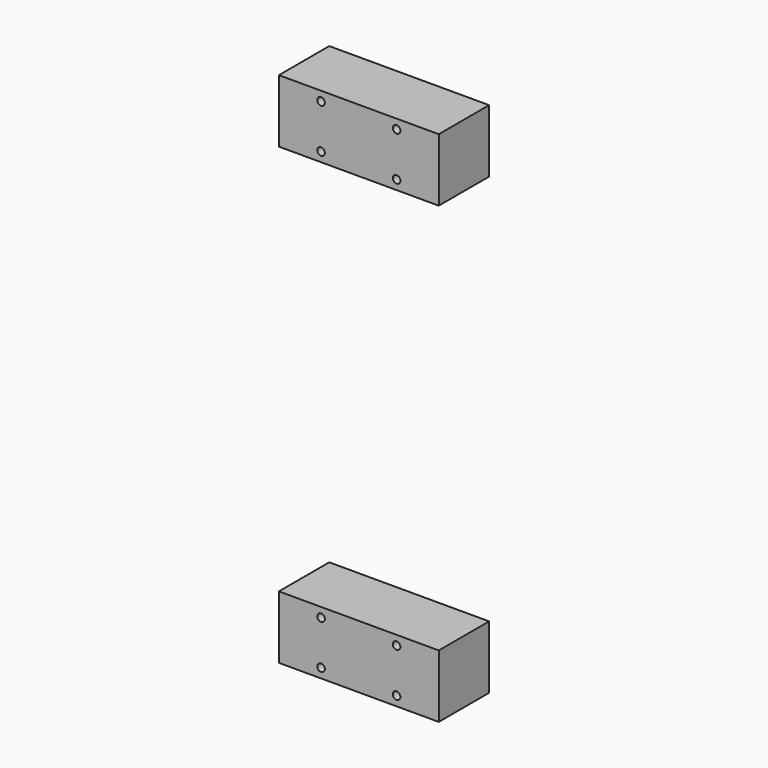
from build123d import *

# Parameters (mm, degrees)
F0_W     = 127
F0_H     = 50
F0_R     = 3
F1_DEPTH = 50


with BuildPart() as f1:
    # F0 (on Front) → F1 (new body)
    with BuildSketch(Plane.XZ):
        with Locations((-0.725808, -72.185411)):
            Rectangle(F0_W, F0_H)
        with Locations((-30.725808, -89.685411)):
            Circle(F0_R, mode=Mode.SUBTRACT)
        with Locations((-30.725808, -54.685411)):
            Circle(F0_R, mode=Mode.SUBTRACT)
        with Locations((29.274192, -89.685411)):
            Circle(F0_R, mode=Mode.SUBTRACT)
        with Locations((29.274192, -54.685411)):
            Circle(F0_R, mode=Mode.SUBTRACT)
        with Locations((-0.725808, 288.814589)):
            Rectangle(F0_W, F0_H)
        with Locations((-30.725808, 271.314589)):
            Circle(F0_R, mode=Mode.SUBTRACT)
        with Locations((-30.725808, 306.314589)):
            Circle(F0_R, mode=Mode.SUBTRACT)
        with Locations((29.274192, 271.314589)):
            Circle(F0_R, mode=Mode.SUBTRACT)
        with Locations((29.274192, 306.314589)):
            Circle(F0_R, mode=Mode.SUBTRACT)
    extrude(amount=F1_DEPTH)


solid = f1.part
